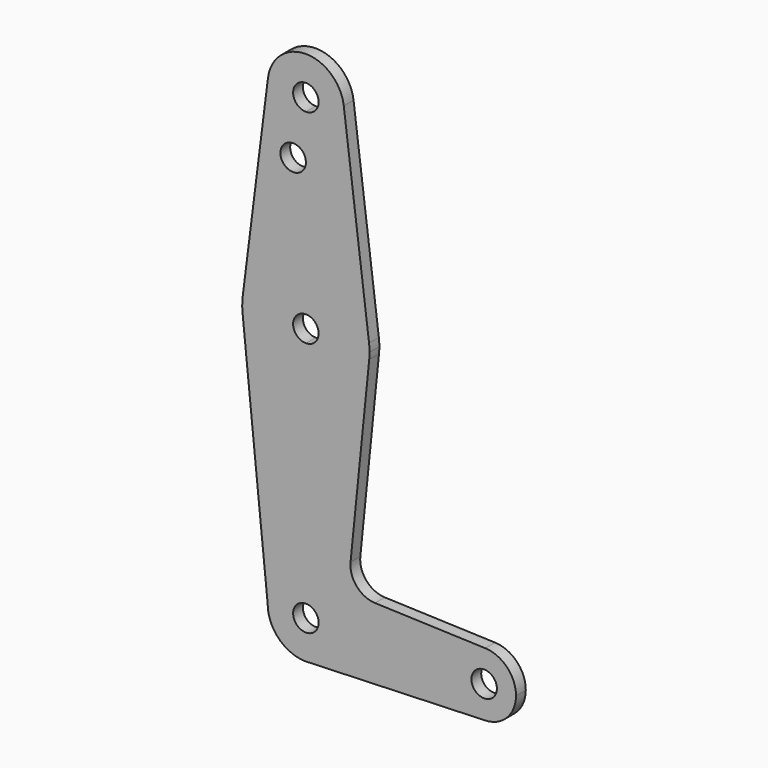
from build123d import *

# Parameters (mm, degrees)
F0_R     = 3.175
F1_DEPTH = 3.048


with BuildPart() as f1:
    # F0 (on Front) → F1 (new body)
    with BuildSketch(Plane.XZ):
        with BuildLine():
            ThreePointArc((-9.4502929642, 115.490625), (-7.14375, 107.9998046905), (0, 104.775))
            ThreePointArc((0, 104.775), (6.7351920908, 107.5648079092), (9.525, 114.3))
            ThreePointArc((9.525, 114.3), (9.5063048942, 114.896483242), (9.4502929642, 115.490625))
            ThreePointArc((9.4502929642, 115.490625), (0, 123.825), (-9.4502929642, 115.490625))
        make_face()
        with BuildLine():
            ThreePointArc((3.175, 114.3), (2.2450640303, 112.0549359697), (0, 111.125))
            ThreePointArc((0, 111.125), (-2.2450640303, 116.5450640303), (3.175, 114.3))
        make_face(mode=Mode.SUBTRACT)
        with BuildLine():
            ThreePointArc((9.525, 114.3), (6.7351920908, 107.5648079092), (0, 104.775))
            Line((0, 104.775), (0, 100.0252))
            Line((0, 100.0252), (0, 79.375))
            ThreePointArc((0, 79.375), (10.5003255158, 75.40625), (15.7504882737, 65.484375))
            Line((15.7504882737, 65.484375), (9.4502929642, 115.490625))
            ThreePointArc((9.4502929642, 115.490625), (9.5063048942, 114.896483242), (9.525, 114.3))
        make_face()
        with BuildLine():
            Line((0, 100.0252), (0, 104.775))
            ThreePointArc((0, 104.775), (-7.14375, 107.9998046905), (-9.4502929642, 115.490625))
            Line((-9.4502929642, 115.490625), (-15.7504882737, 65.484375))
            ThreePointArc((-15.7504882737, 65.484375), (-10.5003255158, 75.40625), (0, 79.375))
            Line((0, 79.375), (0, 100.0252))
        make_face()
        with Locations((-3.175, 100.0252)):
            Circle(F0_R, mode=Mode.SUBTRACT)
        with BuildLine():
            ThreePointArc((15.7504882737, 65.484375), (10.5003255158, 75.40625), (0, 79.375))
            Line((0, 79.375), (0, 66.675))
            ThreePointArc((0, 66.675), (2.2450640303, 65.7450640303), (3.175, 63.5))
            ThreePointArc((3.175, 63.5), (2.2450640303, 61.2549359697), (0, 60.325))
            Line((0, 60.325), (0, 47.625))
            ThreePointArc((0, 47.625), (10.644756084, 51.722700101), (15.7942028036, 61.9003804205))
            ThreePointArc((15.7942028036, 61.9003804205), (15.8547878338, 62.6991705884), (15.875, 63.5))
            ThreePointArc((15.875, 63.5), (15.8438414904, 64.4941387366), (15.7504882737, 65.484375))
        make_face()
        with BuildLine():
            Line((0, 66.675), (0, 79.375))
            ThreePointArc((0, 79.375), (-10.5003255158, 75.40625), (-15.7504882737, 65.484375))
            ThreePointArc((-15.7504882737, 65.484375), (-15.8738192656, 63.6936154008), (-15.7942028036, 61.9003804205))
            ThreePointArc((-15.7942028036, 61.9003804205), (-10.644756084, 51.722700101), (0, 47.625))
            Line((0, 47.625), (0, 60.325))
            ThreePointArc((0, 60.325), (-3.175, 63.5), (0, 66.675))
        make_face()
        with BuildLine():
            ThreePointArc((0, 47.625), (-10.644756084, 51.722700101), (-15.7942028036, 61.9003804205))
            Line((-15.7942028036, 61.9003804205), (-9.525, 0))
            ThreePointArc((-9.525, 0), (-6.7351920908, 6.7351920908), (0, 9.525))
            Line((0, 9.525), (0, 47.625))
        make_face()
        with BuildLine():
            ThreePointArc((15.7942028036, 61.9003804205), (10.644756084, 51.722700101), (0, 47.625))
            Line((0, 47.625), (0, 9.525))
            ThreePointArc((0, 9.525), (6.7351920908, 6.7351920908), (9.525, 0))
            Line((9.525, 0), (36.5125, 0))
            ThreePointArc((36.5125, 0), (38.9380895153, 5.7116327839), (44.7324052746, 7.9324746146))
            Line((44.7324052746, 7.9324746146), (17.2268415524, 8.9117045084))
            ThreePointArc((17.2268415524, 8.9117045084), (12.6668343829, 11.0842730367), (11.1350846506, 15.8975320319))
            Line((11.1350846506, 15.8975320319), (15.7942028036, 61.9003804205))
        make_face()
        with BuildLine():
            ThreePointArc((0, 9.525), (-6.7351920908, 6.7351920908), (-9.525, 0))
            ThreePointArc((-9.525, 0), (-6.7351920908, -6.7351920908), (0, -9.525))
            Line((0, -9.525), (0.6773435479, -9.500885786))
            ThreePointArc((0.6773435479, -9.500885786), (6.9705567315, -6.4912990883), (9.525, 0))
            Line((9.525, 0), (3.175, 0))
            ThreePointArc((3.175, 0), (-2.2450640303, -2.2450640303), (0, 3.175))
            Line((0, 3.175), (0, 9.525))
        make_face()
        with BuildLine():
            Line((0.6773435479, -9.500885786), (0, -9.525))
            ThreePointArc((0, -9.525), (0.3388863295, -9.5189695375), (0.6773435479, -9.500885786))
        make_face()
        with BuildLine():
            Line((36.5125, 0), (9.525, 0))
            ThreePointArc((9.525, 0), (6.9705567315, -6.4912990883), (0.6773435479, -9.500885786))
            Line((0.6773435479, -9.500885786), (44.7324052746, -7.9324746146))
            ThreePointArc((44.7324052746, -7.9324746146), (38.9380895153, -5.7116327839), (36.5125, 0))
        make_face()
        with BuildLine():
            ThreePointArc((44.7324052746, 7.9324746146), (38.9380895153, 5.7116327839), (36.5125, 0))
            ThreePointArc((36.5125, 0), (38.9380895153, -5.7116327839), (44.7324052746, -7.9324746146))
            ThreePointArc((44.7324052746, -7.9324746146), (50.1616327839, -5.5119104847), (52.3875, 0))
            ThreePointArc((52.3875, 0), (50.1616327839, 5.5119104847), (44.7324052746, 7.9324746146))
        make_face()
        with BuildLine():
            ThreePointArc((47.625, 0), (44.45, -3.175), (41.275, 0))
            ThreePointArc((41.275, 0), (44.45, 3.175), (47.625, 0))
        make_face(mode=Mode.SUBTRACT)
        with BuildLine():
            ThreePointArc((9.525, 0), (6.7351920908, 6.7351920908), (0, 9.525))
            Line((0, 9.525), (0, 3.175))
            ThreePointArc((0, 3.175), (2.2450640303, 2.2450640303), (3.175, 0))
            Line((3.175, 0), (9.525, 0))
        make_face()
    extrude(amount=F1_DEPTH)


solid = f1.part
